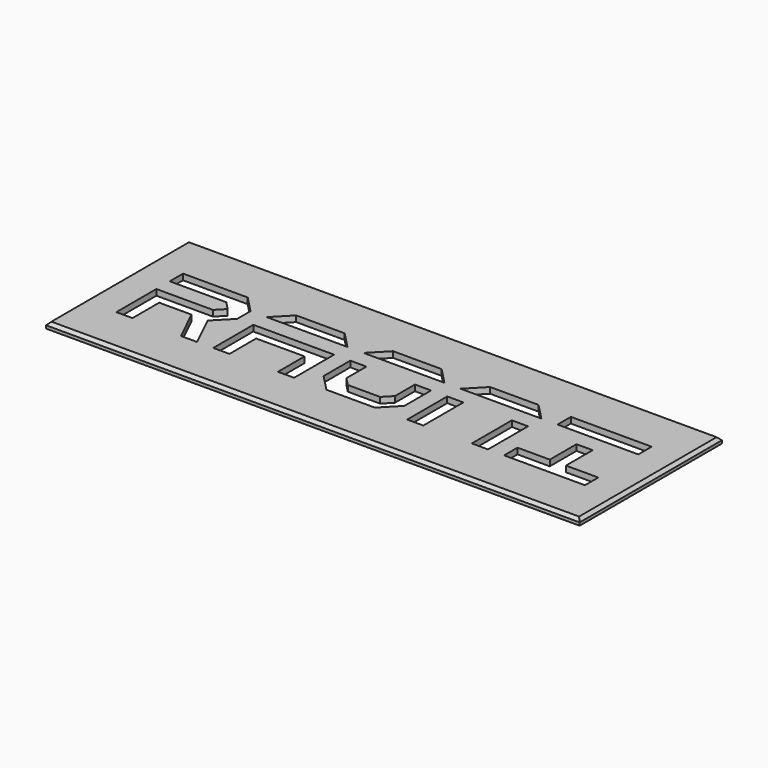
from build123d import *

# Parameters (mm, degrees)
F1_W     = 180
F1_H     = 60
F1_W_2   = 5.451307
F1_H_2   = 16.88455
F1_W_3   = 5.450975
F1_W_4   = 27.255869
F1_H_3   = 5.628183
F2_DEPTH = 2
F3_SIZE  = 1


with BuildPart() as f2:
    # F1 (on Top) → F2 (new body)
    with BuildSketch(Plane.XY):
        Rectangle(F1_W, F1_H)
        Polygon((-40.883972, -14.070458), (-46.335113, -14.070458), (-46.335113, 2.814092), (-19.079077, 2.814092), (-19.079077, -14.070458), (-24.530383, -14.070458), (-24.530383, -2.814092), (-40.883972, -2.814092), align=None, mode=Mode.SUBTRACT)
        Polygon((5.451141, -8.442275), (8.17696, -5.628183), (8.17696, 2.814092), (13.627935, 2.814092), (13.627935, -8.442275), (8.17696, -14.070458), (-8.176628, -14.070458), (-13.627936, -8.442275), (-13.627936, 2.814092), (-8.176628, 2.814092), (-8.176628, -5.628183), (-5.451141, -8.442275), align=None, mode=Mode.SUBTRACT)
        with Locations((21.804896, -5.628183)):
            Rectangle(F1_W_2, F1_H_2, mode=Mode.SUBTRACT)
        with Locations((43.609624, -5.628183)):
            Rectangle(F1_W_3, F1_H_2, mode=Mode.SUBTRACT)
        Polygon((62.688701, 2.814092), (68.140008, 2.814092), (68.140008, -8.442275), (79.042289, -8.442275), (79.042289, -14.070458), (51.78642, -14.070458), (51.78642, -8.442275), (62.688701, -8.442275), align=None, mode=Mode.SUBTRACT)
        Polygon((-79.04229, 8.442275), (-79.04229, 14.070458), (-57.23756, 14.070458), (-51.786254, 8.442275), (-51.786254, 2.814092), (-57.23756, -2.814092), (-51.786254, -14.070458), (-57.23756, -14.070458), (-62.688701, -2.814092), (-73.591149, -2.814092), (-73.591149, -14.070458), (-79.04229, -14.070458), (-79.04229, 2.814092), (-59.963048, 2.814092), (-57.23756, 5.628183), (-59.963048, 8.442275), align=None, mode=Mode.SUBTRACT)
        Polygon((-46.335113, 8.442275), (-40.883972, 14.070458), (-24.530383, 14.070458), (-19.079077, 8.442275), align=None, mode=Mode.SUBTRACT)
        Polygon((-13.627936, 8.442275), (-8.176628, 14.070458), (8.17696, 14.070458), (13.627935, 8.442275), align=None, mode=Mode.SUBTRACT)
        Polygon((19.079242, 8.442275), (24.530549, 14.070458), (40.884137, 14.070458), (46.335112, 8.442275), align=None, mode=Mode.SUBTRACT)
        with Locations((65.414355, 11.256366)):
            Rectangle(F1_W_4, F1_H_3, mode=Mode.SUBTRACT)
    extrude(amount=F2_DEPTH)

    # F3
    f3_edges = [f2.edges().sort_by_distance(p)[0] for p in [
        (0, 30, 2),
        (0, -30, 2),
        (90, 0, 2),
        (-90, 0, 2),
    ]]
    chamfer(f3_edges, length=F3_SIZE)


solid = f2.part
